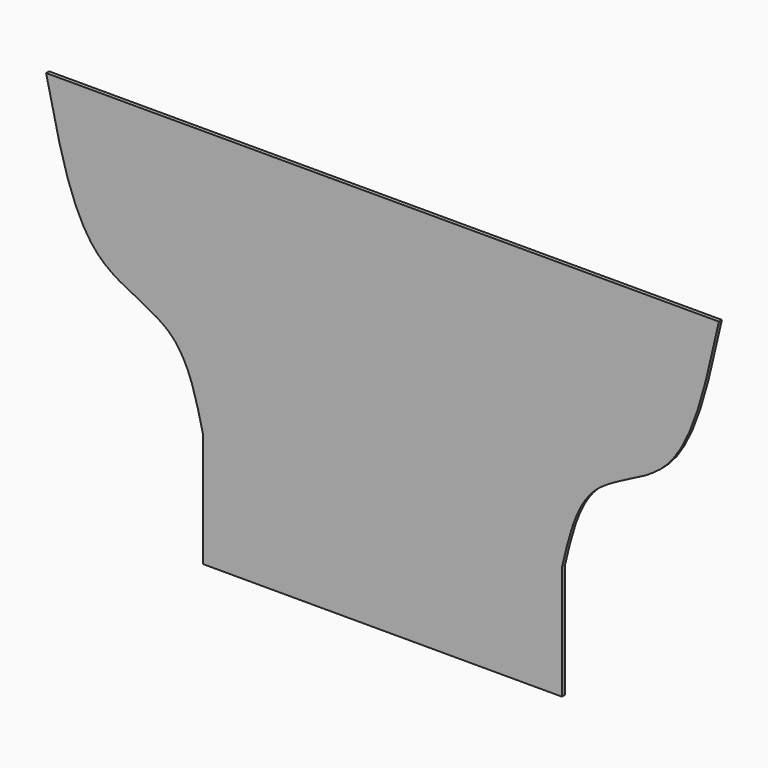
from build123d import *

# Parameters (mm, degrees)
F1_DEPTH = 3.175


with BuildPart() as f1:
    # F0 (on Front) → F1 (new body)
    with BuildSketch(Plane.XZ):
        with BuildLine():
            Line((282.57754, 194.8408979861), (-288.925, 194.8408979861))
            add(Edge.make_bspline(
                [(-288.925, 194.8408979861), (-278.6233532347, 150.2992306177), (-262.0291645214, 59.6695220489), (-171.9617879516, 45.4775987316), (-160.5512149407, -11.5136408638), (-155.575, -32.3317494782)],
                knots=[0, 0, 0, 0, 0.400661789, 0.7043403436, 1, 1, 1, 1], degree=3))
            Line((-155.575, -32.3317494782), (-155.575, -129.0091020139))
            Line((-155.575, -129.0091020139), (149.22754, -129.0091020139))
            Line((149.22754, -129.0091020139), (149.22754, -32.3317494782))
            add(Edge.make_bspline(
                [(282.57754, 194.8408979861), (272.2758932347, 150.2992306177), (255.6817045214, 59.6695220489), (165.6143279516, 45.4775987316), (154.2037549407, -11.5136408638), (149.22754, -32.3317494782)],
                knots=[0, 0, 0, 0, 0.400661789, 0.7043403436, 1, 1, 1, 1], degree=3))
        make_face()
    extrude(amount=F1_DEPTH)


solid = f1.part
